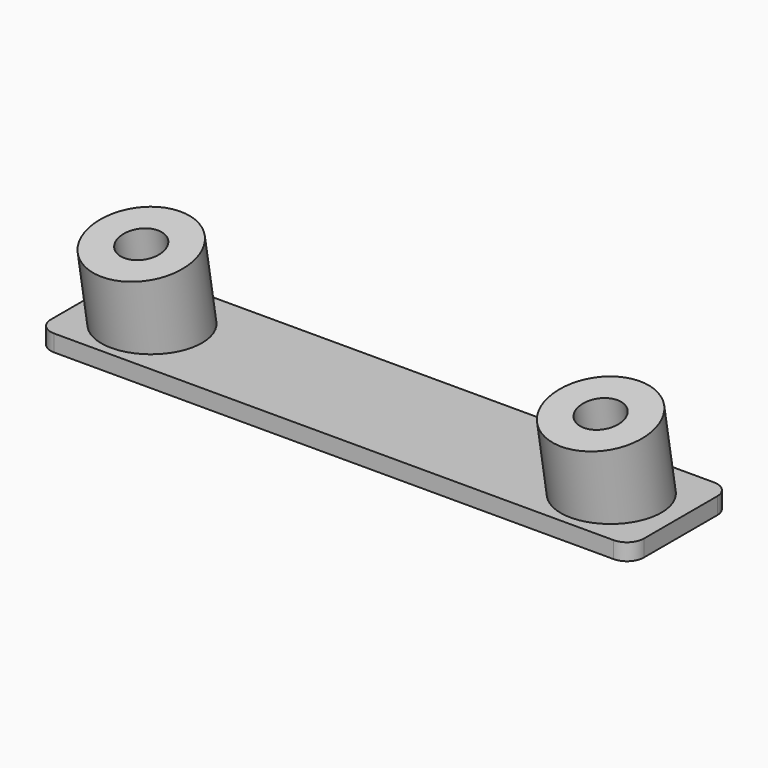
from build123d import *

# Parameters (mm, degrees)
F0_W          = 71
F0_H          = 15
F1_DEPTH      = 2
F2_R          = 2
F4_R          = 6
F4_R_2        = 2.55
F5_DEPTH      = 8
F5_DEPTH_BACK = 2.3


with BuildPart() as f1:
    # F0 (on Top) → F1 (new body)
    with BuildSketch(Plane.XY):
        Rectangle(F0_W, F0_H)
    extrude(amount=F1_DEPTH)

    # F2
    f2_edges = [f1.edges().sort_by_distance(p)[0] for p in [
        (-35.5, 7.5, 1),
        (-35.5, -7.5, 1),
        (35.5, -7.5, 1),
        (35.5, 7.5, 1),
    ]]
    fillet(f2_edges, radius=F2_R)

    # F4 (on face) → F5 (join, two sides)
    with BuildSketch(Plane(origin=(0, -0.568173, 3.222268), x_dir=(1, 0, 0), z_dir=(0, -0.173648, 0.984808))) as f5_sk:
        with Locations((-27.5, 0)):
            Circle(F4_R)
        with Locations((-27.5, 0)):
            Circle(F4_R_2, mode=Mode.SUBTRACT)
        with Locations((27.5, 0)):
            Circle(F4_R)
        with Locations((27.5, 0)):
            Circle(F4_R_2, mode=Mode.SUBTRACT)
    extrude(amount=F5_DEPTH)
    extrude(f5_sk.sketch, amount=-F5_DEPTH_BACK)


solid = f1.part
